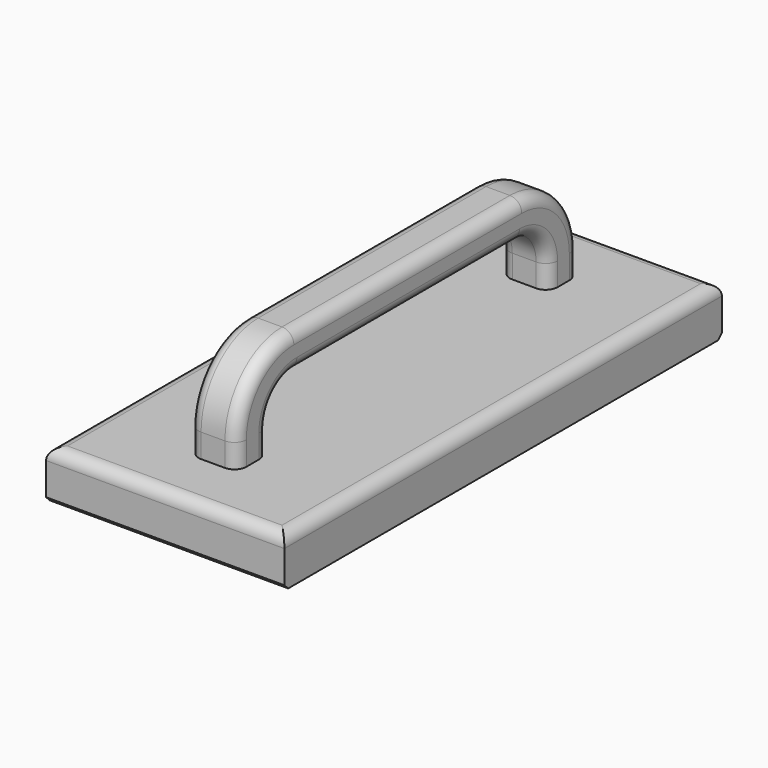
from build123d import *

# Parameters (mm, degrees)
F0_W     = 100.2259999514
F0_H     = 20.5646064132
F1_DEPTH = 230
F2_R     = 5
F3_W     = 20.0339406729
F3_H     = 179.7797265649
F4_DEPTH = 40
F5_R     = 30
F6_W     = 147.0367200673
F6_H     = 24.7304122895
F7_DEPTH = 25
F8_R     = 15
F9_R     = 5
F10_SIZE = 2
F11_SIZE = 2


with BuildPart() as f1:
    # F0 (on Front) → F1 (new body)
    with BuildSketch(Plane.XZ):
        with Locations((-50.1129999757, 10.2823032066)):
            Rectangle(F0_W, F0_H)
    extrude(amount=F1_DEPTH)

    # F2
    f2_edges = [f1.edges().sort_by_distance(p)[0] for p in [
        (-50.113, -230, 20.564606),
        (0, -115, 20.564606),
        (-100.226, -115, 20.564606),
        (-50.113, 0, 20.564606),
    ]]
    fillet(f2_edges, radius=F2_R)

    # F3 (on face) → F4 (join)
    with BuildSketch(Plane.XY.offset(20.5646064132)):
        with Locations((-50.1129999757, -115)):
            Rectangle(F3_W, F3_H)
    extrude(amount=F4_DEPTH)

    # F5
    f5_edges = [f1.edges().sort_by_distance(p)[0] for p in [
        (-50.113, -25.110137, 60.564606),
        (-50.113, -204.889863, 60.564606),
    ]]
    fillet(f5_edges, radius=F5_R)

    # F6 (on face) → F7 (cut)
    with BuildSketch(Plane(origin=(-60.1299703121, 0, 0), x_dir=(0, -1, 0), z_dir=(-1, 0, 0))):
        with Locations((114.8098763078, 32.929812558)):
            Rectangle(F6_W, F6_H)
    extrude(amount=-F7_DEPTH, mode=Mode.SUBTRACT)

    # F8
    f8_edges = [f1.edges().sort_by_distance(p)[0] for p in [
        (-50.113, -188.328236, 45.295019),
        (-50.113, -41.291516, 45.295019),
    ]]
    fillet(f8_edges, radius=F8_R)

    # F9
    f9_edges = [f1.edges().sort_by_distance(p)[0] for p in [
        (-60.12997, -115, 60.564606),
        (-60.12997, -33.896933, 51.77781),
        (-60.12997, -114.809876, 45.295019),
        (-60.12997, -45.684915, 40.90162),
        (-60.12997, -183.934838, 40.90162),
        (-40.09603, -115, 60.564606),
        (-40.09603, -196.103067, 51.77781),
        (-40.09603, -114.809876, 45.295019),
    ]]
    fillet(f9_edges, radius=F9_R)

    # F10
    f10_edges = [f1.edges().sort_by_distance(p)[0] for p in [
        (-50.113, -230, 0),
    ]]
    chamfer(f10_edges, length=F10_SIZE)

    # F11
    f11_edges = [f1.edges().sort_by_distance(p)[0] for p in [
        (-50.113, 0, 0),
    ]]
    chamfer(f11_edges, length=F11_SIZE)


solid = f1.part
